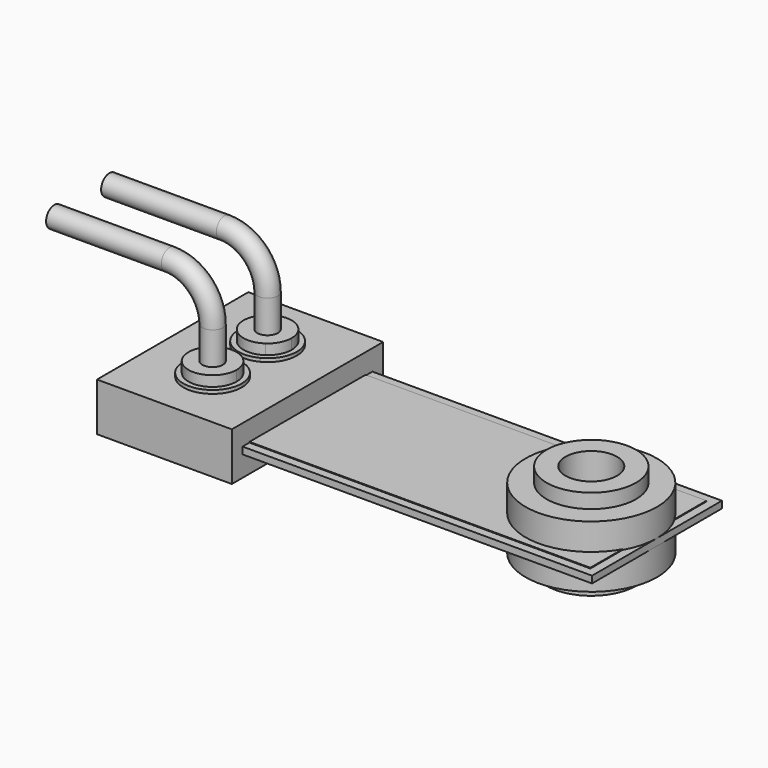
from build123d import *

# Parameters (mm, degrees)
F0_R          = 2.4257
F0_R_2        = 1.651
F0_R_3        = 0.9525
F1_DEPTH      = 1.143
F1_DEPTH_BACK = 1.143
F2_DEPTH      = 1.6764
F3_W          = 17.8816
F3_H          = 5.9944
F4_DEPTH      = 0.127
F5_W          = 17.5641
F5_H          = 5.3594
F6_DEPTH      = 0.1524
F7_DEPTH      = 12.7
F8_W          = 4.9784
F8_H          = 6.985
F9_DEPTH      = 0.889
F16_R         = 0.508
F17_DEPTH     = 0.127
F19_DEPTH     = 0.508
F23_R         = 0.381
F26_W         = 0.254
F26_H         = 1.27
F27_DEPTH     = 0.0254


with BuildPart() as f1:
    # F0 (on Top) → F1 (new body, two sides)
    with BuildSketch(Plane.XY) as f1_sk:
        Circle(F0_R)
        Circle(F0_R_2, mode=Mode.SUBTRACT)
        Circle(F0_R_2)
        Circle(F0_R_3, mode=Mode.SUBTRACT)
    extrude(amount=F1_DEPTH)
    extrude(f1_sk.sketch, amount=-F1_DEPTH_BACK)

    # F0 (on Top) → F2 (join, symmetric)
    with BuildSketch(Plane.XY):
        Circle(F0_R_2)
        Circle(F0_R_3, mode=Mode.SUBTRACT)
    extrude(amount=F2_DEPTH, both=True)


with BuildPart() as f4:
    # F3 (on Top) → F4 (new body, symmetric)
    with BuildSketch(Plane.XY):
        with Locations((-6.5151, 0)):
            Rectangle(F3_W, F3_H)
    extrude(amount=F4_DEPTH, both=True)


with BuildPart() as f6:
    # F5 (on Top) → F6 (new body, symmetric)
    with BuildSketch(Plane.XY):
        with Locations((-6.67385, 0)):
            Rectangle(F5_W, F5_H)
    extrude(amount=F6_DEPTH, both=True)


with BuildPart() as f7_tool:
    # F0 (on Top) → F7 (new body, symmetric)
    with BuildSketch(Plane.XY):
        Circle(F0_R_3)
    extrude(amount=F7_DEPTH, both=True)


with BuildPart() as f4_1:
    add(f4.part)

    # F7: cut by f7_tool
    add(f7_tool.part, mode=Mode.SUBTRACT)


with BuildPart() as f6_1:
    add(f6.part)

    # F7: cut by f7_tool
    add(f7_tool.part, mode=Mode.SUBTRACT)


with BuildPart() as f9:
    # F8 (on Top) → F9 (new body, symmetric)
    with BuildSketch(Plane.XY):
        with Locations((-12.9667, 0)):
            Rectangle(F8_W, F8_H)
    extrude(amount=F9_DEPTH, both=True)

    # F10: cut F4, F6
    add(f4_1.part, mode=Mode.SUBTRACT)
    add(f6_1.part, mode=Mode.SUBTRACT)


with BuildPart() as f14:
    # F13 (on offset) → F14 (revolve)
    with BuildSketch(Plane.XZ.offset(1.27)):
        with BuildLine():
            Line((-12.9667, -1.2065), (-12.9667, -0.889))
            Line((-12.9667, -0.889), (-14.0462, -0.889))
            ThreePointArc((-14.0462, -0.889), (-13.529311, -1.125479), (-12.9667, -1.2065))
        make_face()
    revolve(axis=Axis((-12.9667, -1.27, -1.04775), (0, 0, -1)))


with BuildPart() as f15_1:
    # F15: instance of F14
    add(f14.part.mirror(Plane.XZ))


with BuildPart() as f17:
    # F16 (on face) → F17 (new body)
    with BuildSketch(Plane.XY.offset(0.889)):
        with BuildLine():
            ThreePointArc((-12.4587, -0.3175), (-13.892364, -1.825398), (-11.8872, -1.27))
            ThreePointArc((-11.8872, -1.27), (-12.041036, -0.714602), (-12.4587, -0.3175))
        make_face()
        with BuildLine():
            ThreePointArc((-12.0777, -1.27), (-13.754714, -1.681527), (-12.4587, -0.540441))
            ThreePointArc((-12.4587, -0.540441), (-12.178686, -0.858473), (-12.0777, -1.27))
        make_face(mode=Mode.SUBTRACT)
        with BuildLine():
            ThreePointArc((-12.0777, -1.27), (-12.178686, -0.858473), (-12.4587, -0.540441))
            ThreePointArc((-12.4587, -0.540441), (-13.754714, -1.681527), (-12.0777, -1.27))
        make_face()
        with Locations((-12.9667, -1.27)):
            Circle(F16_R, mode=Mode.SUBTRACT)
        with Locations((-12.9667, -1.27)):
            Circle(F16_R)
    extrude(amount=F17_DEPTH)


with BuildPart() as f18_1:
    # F18: instance of F17
    add(f17.part.mirror(Plane.XZ))


with BuildPart() as f19:
    # F16 (on face) → F19 (new body)
    with BuildSketch(Plane.XY.offset(0.889)):
        with BuildLine():
            ThreePointArc((-12.0777, -1.27), (-12.178686, -0.858473), (-12.4587, -0.540441))
            ThreePointArc((-12.4587, -0.540441), (-13.754714, -1.681527), (-12.0777, -1.27))
        make_face()
        with Locations((-12.9667, -1.27)):
            Circle(F16_R, mode=Mode.SUBTRACT)
        with Locations((-12.9667, -1.27)):
            Circle(F16_R)
    extrude(amount=F19_DEPTH)

    # F24: sweep along a path in F22
    with BuildLine(Plane(origin=(0, -1.27, 0), x_dir=(-1, 0, 0), z_dir=(0, 1, 0))) as f24_path:
        Line((12.9667, 1.397), (12.9667, 2.6035))
        ThreePointArc((12.9667, 2.6035), (13.431668, 3.726032), (14.5542, 4.191))
        Line((14.5542, 4.191), (18.8087, 4.191))
    # F23 (on face) → F24 (sweep)
    with BuildSketch(Plane.XY.offset(1.397)):
        with Locations((-12.9667, -1.27)):
            Circle(F23_R)
    sweep(path=f24_path.line)


with BuildPart() as f25_1:
    # F25: instance of F19
    add(f19.part.mirror(Plane.XZ))


with BuildPart() as f27:
    # F26 (on face) → F27 (new body)
    with BuildSketch(Plane(origin=(0, 0, -0.889), x_dir=(1, 0, 0), z_dir=(0, 0, -1))):
        Polygon((-14.4399, 3.2385), (-14.6939, 3.2385), (-14.6939, 2.7305), (-15.2019, 2.7305), (-15.2019, 2.4765), (-14.6939, 2.4765), (-14.6939, 1.9685), (-14.4399, 1.9685), (-14.4399, 2.4765), (-13.9319, 2.4765), (-13.9319, 2.7305), (-14.4399, 2.7305), align=None)
        with Locations((-14.5669, -2.6035)):
            Rectangle(F26_W, F26_H)
    extrude(amount=F27_DEPTH)


solid = Compound([f1.part, f4_1.part, f6_1.part, f9.part, f14.part, f15_1.part, f17.part, f18_1.part, f19.part, f25_1.part, f27.part])
